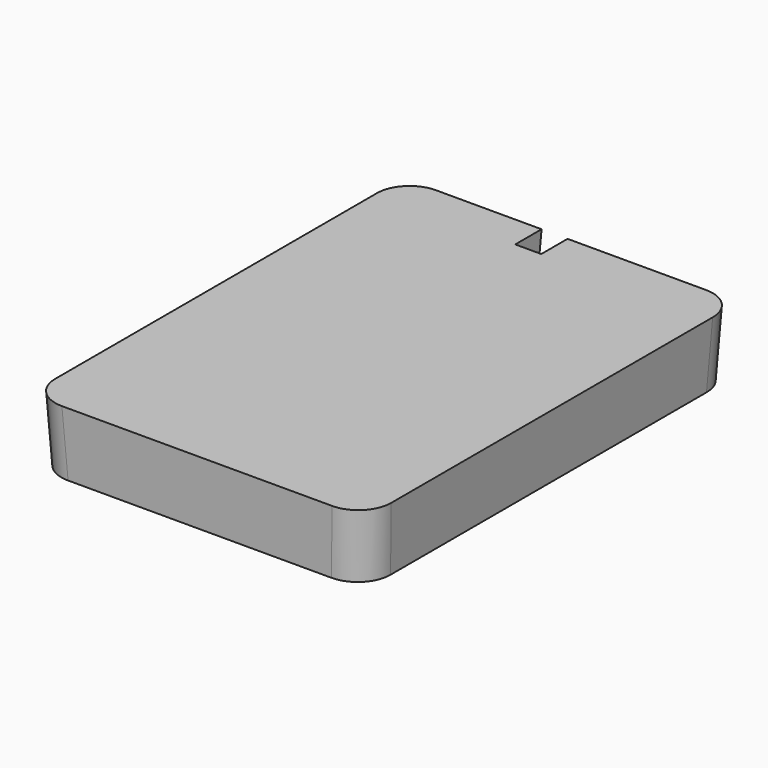
from build123d import *

# Parameters (mm, degrees)
F1_DEPTH = 10
F1_TAPER = -3
F2_R     = 5


with BuildPart() as f1:
    # F0 (on Top) → F1 (new body)
    with BuildSketch(Plane.XY):
        Polygon((-25, 35), (-25, -35), (25, -35), (25, 35), (0, 35), (0, 30), (-5, 30), (-5, 35), align=None)
    extrude(amount=F1_DEPTH, taper=F1_TAPER)

    # F2
    f2_edges = [f1.edges().sort_by_distance(p)[0] for p in [
        (25.262039, -35.262039, 5),
        (25.262039, 35.262039, 5),
        (-25.262039, -35.262039, 5),
        (-25.262039, 35.262039, 5),
    ]]
    fillet(f2_edges, radius=F2_R)


solid = f1.part
